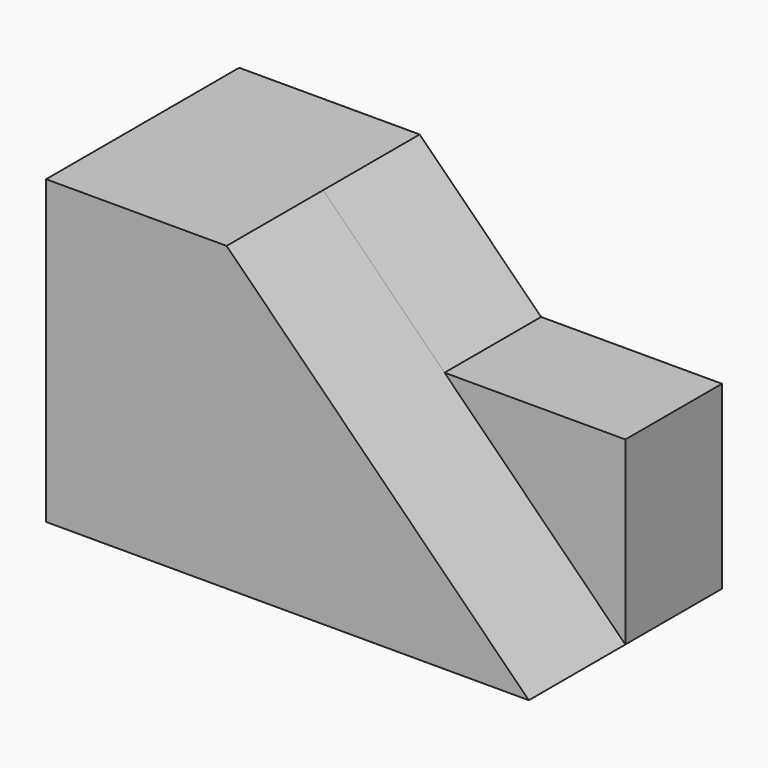
from build123d import *

# Parameters (mm, degrees)
F0_W     = 50.8
F0_H     = 31.75
F1_DEPTH = 25.4
F3_DEPTH = 12.7
F5_DEPTH = 12.7
F7_DEPTH = 12.701


with BuildPart() as f1:
    # F0 (on Front) → F1 (new body)
    with BuildSketch(Plane.XZ):
        with Locations((25.4, 15.875)):
            Rectangle(F0_W, F0_H)
    extrude(amount=F1_DEPTH)

    # F2 (on Front) → F3 (cut)
    with BuildSketch(Plane.XZ):
        Polygon((31.426101923, 5.7290680707), (38.6526212096, -0.4363064363), (50.3639169037, 0), (50.3639169037, 5.7290680707), align=None)
    extrude(amount=-F3_DEPTH, mode=Mode.SUBTRACT)

    # F4 (on face) → F5 (cut)
    with BuildSketch(Plane.XZ.offset(25.4)):
        Polygon((50.8, 31.75), (18.997348845, 31.75), (50.8, 0), align=None)
    extrude(amount=-F5_DEPTH, mode=Mode.SUBTRACT)

    # F6 (on face) → F7 (cut, through all)
    with BuildSketch(Plane.XZ.offset(12.7)):
        Polygon((31.7711477736, 18.997348845), (50.8, 18.997348845), (50.8, 31.75), (18.997348845, 31.75), align=None)
    extrude(amount=-F7_DEPTH, mode=Mode.SUBTRACT)


solid = f1.part
